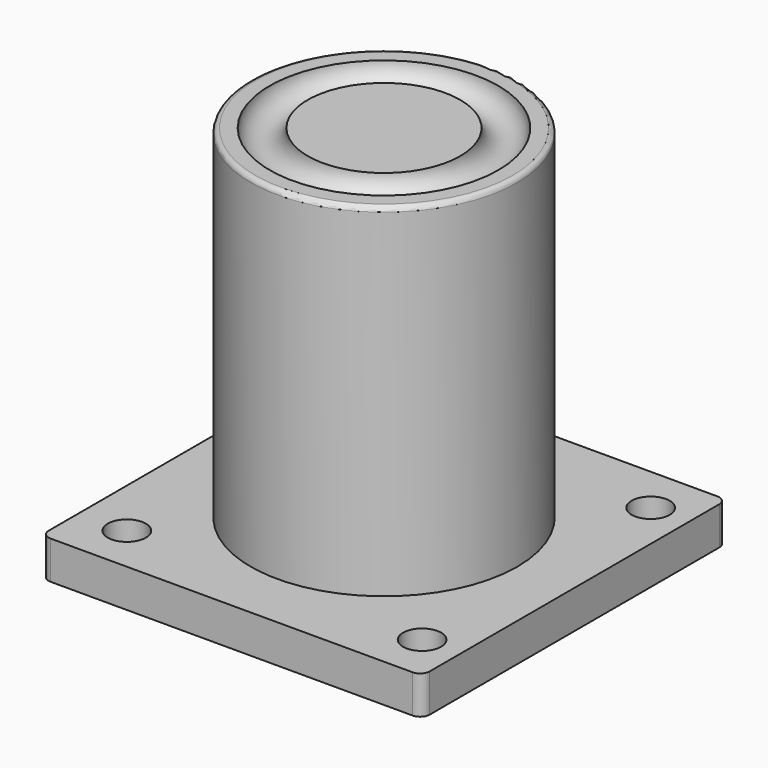
from build123d import *

# Parameters (mm, degrees)
TORUS_R           = 2
CYLINDER004_R     = 14
CYLINDER004_DEPTH = 40
FILLET001_R       = 0.5
CYLINDER003_R     = 2
CYLINDER003_DEPTH = 4
CYLINDER002_R     = 2
CYLINDER002_DEPTH = 4
CYLINDER001_R     = 2
CYLINDER001_DEPTH = 4
CYLINDER_R        = 2
CYLINDER_DEPTH    = 4
BOX_W             = 40
BOX_H             = 40
BOX_DEPTH         = 4
FILLET_R          = 1


with BuildPart() as torus:
    # Torus → Torus (revolve)
    with BuildSketch(Plane(origin=(20, 20, 40), x_dir=(1, 0, 0), z_dir=(0, -1, 0))):
        with Locations((10, 0)):
            Circle(TORUS_R)
    revolve(axis=Axis((20, 20, 40), (0, 0, 1)))


with BuildPart() as fillet001:
    # Cylinder004 → Cylinder004 (new body)
    with BuildSketch(Plane(origin=(20, 20, 0), x_dir=(1, 0, 0), z_dir=(0, 0, 1))):
        Circle(CYLINDER004_R)
    extrude(amount=CYLINDER004_DEPTH)

    # Cut: cut Torus
    add(torus.part, mode=Mode.SUBTRACT)

    # Fillet001
    fillet001_edges = [fillet001.edges().sort_by_distance(p)[0] for p in [
        (6, 20, 40),
    ]]
    fillet(fillet001_edges, radius=FILLET001_R)


with BuildPart() as cylinder003:
    # Cylinder003 → Cylinder003 (new body)
    with BuildSketch(Plane(origin=(36, 35, 1), x_dir=(1, 0, 0), z_dir=(0, 0, 1))):
        Circle(CYLINDER003_R)
    extrude(amount=CYLINDER003_DEPTH)


with BuildPart() as cylinder002:
    # Cylinder002 → Cylinder002 (new body)
    with BuildSketch(Plane(origin=(5, 35, 1), x_dir=(1, 0, 0), z_dir=(0, 0, 1))):
        Circle(CYLINDER002_R)
    extrude(amount=CYLINDER002_DEPTH)


with BuildPart() as cylinder001:
    # Cylinder001 → Cylinder001 (new body)
    with BuildSketch(Plane(origin=(5, 5, 1), x_dir=(1, 0, 0), z_dir=(0, 0, 1))):
        Circle(CYLINDER001_R)
    extrude(amount=CYLINDER001_DEPTH)


with BuildPart() as cylinder:
    # Cylinder → Cylinder (new body)
    with BuildSketch(Plane(origin=(36, 5, 1), x_dir=(1, 0, 0), z_dir=(0, 0, 1))):
        Circle(CYLINDER_R)
    extrude(amount=CYLINDER_DEPTH)


with BuildPart() as cut004:
    # Box → Box (new body)
    with BuildSketch(Plane.XY):
        with Locations((20, 20)):
            Rectangle(BOX_W, BOX_H)
    extrude(amount=BOX_DEPTH)

    # Fillet
    fillet_edges = [cut004.edges().sort_by_distance(p)[0] for p in [
        (0, 0, 2),
        (0, 40, 2),
        (40, 0, 2),
        (40, 40, 2),
    ]]
    fillet(fillet_edges, radius=FILLET_R)

    # Cut001: cut Cylinder
    add(cylinder.part, mode=Mode.SUBTRACT)

    # Cut002: cut Cylinder001
    add(cylinder001.part, mode=Mode.SUBTRACT)

    # Cut003: cut Cylinder002
    add(cylinder002.part, mode=Mode.SUBTRACT)

    # Cut004: cut Cylinder003
    add(cylinder003.part, mode=Mode.SUBTRACT)


solid = Compound([fillet001.part, cut004.part])
